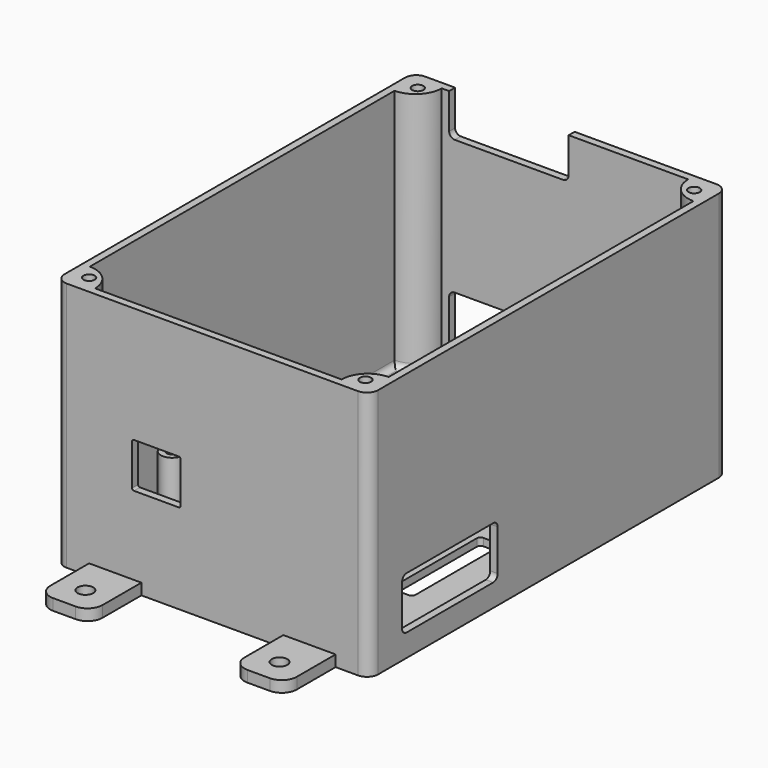
from build123d import *

# Parameters (mm, degrees)
CYLINDER_R                = 2.1
CYLINDER_DEPTH            = 10
BOX009_W                  = 14
BOX009_H                  = 18
BOX009_DEPTH              = 3
FILLET007_R               = 4
CUT008_PLACEMENT_ANGLE    = -90
CUT009_PLACEMENT_ANGLE    = -90
SKETCH_R                  = 1.5
PAD003_DEPTH              = 20
SKETCH003_R               = 3
PAD002_DEPTH              = 21.5
BOX008_W                  = 6
BOX008_H                  = 30
BOX008_DEPTH              = 10
FILLET006_R               = 1
ARRAY_X_COUNT             = 6
ARRAY_X_PITCH             = 10
BOX007_W                  = 13
BOX007_H                  = 12
BOX007_DEPTH              = 12
FILLET003_R               = 0.5
BOX006_W                  = 10
BOX006_H                  = 32
BOX006_DEPTH              = 14
FILLET008_R               = 1.5
FILLET008_PLACEMENT_ANGLE = 90
FILLET001_R               = 1.5
FILLET002_R               = 1.5
FILLET002_PLACEMENT_ANGLE = 90
SKETCH002_R               = 1.5
PAD001_DEPTH              = 55
PAD_DEPTH                 = 101
BOX_W                     = 84
BOX_H                     = 120
BOX_DEPTH                 = 67
FILLET_R                  = 3
FILLET009_R               = 1.5
FILLET010_R               = 3


with BuildPart() as cylinder:
    # Cylinder → Cylinder (new body)
    with BuildSketch(Plane(origin=(0, -10, -5), x_dir=(1, 0, 0), z_dir=(0, 0, 1))):
        Circle(CYLINDER_R)
    extrude(amount=CYLINDER_DEPTH)


with BuildPart() as fillet007:
    # Box009 → Box009 (new body)
    with BuildSketch(Plane(origin=(-7, -17, -3), x_dir=(1, 0, 0), z_dir=(0, 0, 1))):
        with Locations((7, 9)):
            Rectangle(BOX009_W, BOX009_H)
    extrude(amount=BOX009_DEPTH)

    # Fillet007
    fillet007_edges = [fillet007.edges().sort_by_distance(p)[0] for p in [
        (-7, -17, -1.5),
        (7, -17, -1.5),
    ]]
    fillet(fillet007_edges, radius=FILLET007_R)


with BuildPart() as cut006:
    # Cut006 base: copy of Fillet007
    add(fillet007.part)

    # Cut006: cut Cylinder
    add(cylinder.part, mode=Mode.SUBTRACT)


with BuildPart() as cut006_1:
    # Cut006 placement: moved
    add(cut006.part.moved(Location((16, 0, 0))))


with BuildPart() as cut008:
    # Cut008 base: copy of Fillet007
    add(fillet007.part)

    # Cut008: cut Cylinder
    add(cylinder.part, mode=Mode.SUBTRACT)


with BuildPart() as cut008_1:
    # Cut008 placement: moved
    add(cut008.part.moved(Location((0, 40, 0))).rotate(Axis((0, 40, 0), (0, 0, 1)), CUT008_PLACEMENT_ANGLE))


with BuildPart() as cut009:
    # Cut009 base: copy of Fillet007
    add(fillet007.part)

    # Cut009: cut Cylinder
    add(cylinder.part, mode=Mode.SUBTRACT)


with BuildPart() as cut009_1:
    # Cut009 placement: moved
    add(cut009.part.moved(Location((0, 104, 0))).rotate(Axis((0, 104, 0), (0, 0, 1)), CUT009_PLACEMENT_ANGLE))


with BuildPart() as fusion002:
    # Cut007 base: copy of Fillet007
    add(fillet007.part)

    # Cut007: cut Cylinder
    add(cylinder.part, mode=Mode.SUBTRACT)


with BuildPart() as fusion002_1:
    # Cut007 placement: moved
    add(fusion002.part.moved(Location((68, 0, 0))))

    # Fusion002: union Cut006, Cut008, Cut009
    add(cut006_1.part)
    add(cut008_1.part)
    add(cut009_1.part)


with BuildPart() as pad003:
    # Sketch → Pad003 (new body)
    with BuildSketch(Plane.XY.offset(30)):
        with Locations((29.431499, 72.042999)):
            Circle(SKETCH_R)
        with Locations((57.39175, 72.024506)):
            Circle(SKETCH_R)
        with Locations((14.220078, 21.25082)):
            Circle(SKETCH_R)
        with Locations((62.458767, 102.502319)):
            Circle(SKETCH_R)
        with Locations((62.453587, 19.980213)):
            Circle(SKETCH_R)
    extrude(amount=-PAD003_DEPTH)


with BuildPart() as pad002:
    # Sketch003 → Pad002 (new body)
    with BuildSketch(Plane.XY.offset(-2)):
        with Locations((29.431499, 72.042999)):
            Circle(SKETCH003_R)
        with Locations((57.39175, 72.024506)):
            Circle(SKETCH003_R)
        with Locations((14.220078, 21.25082)):
            Circle(SKETCH003_R)
        with Locations((62.458767, 102.502319)):
            Circle(SKETCH003_R)
        with Locations((62.453587, 19.980213)):
            Circle(SKETCH003_R)
    extrude(amount=PAD002_DEPTH)


with BuildPart() as array:
    # Box008 → Box008 (new body)
    with BuildSketch(Plane(origin=(14, 32, 0), x_dir=(1, 0, 0), z_dir=(0, 0, 1))):
        with Locations((3, 15)):
            Rectangle(BOX008_W, BOX008_H)
    extrude(amount=BOX008_DEPTH)

    # Fillet006
    fillet006_edges = [array.edges().sort_by_distance(p)[0] for p in [
        (14, 32, 5),
        (14, 62, 5),
        (20, 32, 5),
        (20, 62, 5),
    ]]
    fillet(fillet006_edges, radius=FILLET006_R)


with BuildPart() as array_1:
    # Fillet006 placement: moved
    add(array.part.moved(Location((0, 0, -5))))

    # Array X: Array ×6


with BuildPart() as array_2:
    add(array_1.part)
    with Locations(*[(i * ARRAY_X_PITCH, 0, 0) for i in range(1, ARRAY_X_COUNT)]):
        add(array_1.part)


with BuildPart() as fillet003:
    # Box007 → Box007 (new body)
    with BuildSketch(Plane(origin=(20.5, -1, 21), x_dir=(1, 0, 0), z_dir=(0, 0, 1))):
        with Locations((6.5, 6)):
            Rectangle(BOX007_W, BOX007_H)
    extrude(amount=BOX007_DEPTH)

    # Fillet003
    fillet003_edges = [fillet003.edges().sort_by_distance(p)[0] for p in [
        (20.5, 5, 33),
        (20.5, 5, 21),
        (33.5, 5, 33),
        (33.5, 5, 21),
    ]]
    fillet(fillet003_edges, radius=FILLET003_R)


with BuildPart() as cube006:
    # Box006 → Box006 (new body)
    with BuildSketch(Plane(origin=(80, 11, 3), x_dir=(1, 0, 0), z_dir=(0, 0, 1))):
        with Locations((5, 16)):
            Rectangle(BOX006_W, BOX006_H)
    extrude(amount=BOX006_DEPTH)


with BuildPart() as fillet008:
    # Fillet008 base: copy of Cube006
    add(cube006.part)

    # Fillet008
    fillet008_edges = [fillet008.edges().sort_by_distance(p)[0] for p in [
        (85, 11, 3),
        (85, 11, 17),
        (85, 43, 3),
        (85, 43, 17),
    ]]
    fillet(fillet008_edges, radius=FILLET008_R)


with BuildPart() as fillet008_1:
    # Fillet008 placement: moved
    add(fillet008.part.moved(Location((54, 36, 0))).rotate(Axis((54, 36, 0), (0, 0, 1)), FILLET008_PLACEMENT_ANGLE))


with BuildPart() as fillet001:
    # Fillet001 base: copy of Cube006
    add(cube006.part)

    # Fillet001
    fillet001_edges = [fillet001.edges().sort_by_distance(p)[0] for p in [
        (85, 11, 3),
        (85, 11, 17),
        (85, 43, 3),
        (85, 43, 17),
    ]]
    fillet(fillet001_edges, radius=FILLET001_R)


with BuildPart() as fusion001:
    # Fillet002 base: copy of Cube006
    add(cube006.part)

    # Fillet002
    fillet002_edges = [fusion001.edges().sort_by_distance(p)[0] for p in [
        (85, 11, 3),
        (85, 11, 17),
        (85, 43, 3),
        (85, 43, 17),
    ]]
    fillet(fillet002_edges, radius=FILLET002_R)


with BuildPart() as fusion001_1:
    # Fillet002 placement: moved
    add(fusion001.part.moved(Location((54, 36, 50))).rotate(Axis((54, 36, 50), (0, 0, 1)), FILLET002_PLACEMENT_ANGLE))

    # Fusion001: union Fillet008, Fillet001
    add(fillet008_1.part)
    add(fillet001.part)


with BuildPart() as pad001:
    # Sketch002 → Pad001 (new body)
    with BuildSketch(Plane.XY.offset(100)):
        with Locations((5, 115)):
            Circle(SKETCH002_R)
        with Locations((79, 115)):
            Circle(SKETCH002_R)
        with Locations((79, 5)):
            Circle(SKETCH002_R)
        with Locations((5, 5)):
            Circle(SKETCH002_R)
    extrude(amount=-PAD001_DEPTH)


with BuildPart() as pad:
    # Sketch001 → Pad (new body)
    with BuildSketch(Plane.XY.offset(100)):
        with BuildLine():
            Line((82, 111), (82, 9))
            ThreePointArc((82, 9), (77.050253, 6.949747), (75, 2))
            Line((75, 2), (9, 2))
            ThreePointArc((9, 2), (6.949747, 6.949747), (2, 9))
            Line((2, 9), (2, 111))
            ThreePointArc((2, 111), (6.949747, 113.050253), (9, 118))
            Line((9, 118), (75, 118))
            ThreePointArc((75, 118), (77.050253, 113.050253), (82, 111))
        make_face()
    extrude(amount=-PAD_DEPTH)


with BuildPart() as fusion004:
    # Box → Box (new body)
    with BuildSketch(Plane.XY.offset(-3)):
        with Locations((42, 60)):
            Rectangle(BOX_W, BOX_H)
    extrude(amount=BOX_DEPTH)

    # Cut: cut Pad
    add(pad.part, mode=Mode.SUBTRACT)

    # Cut001: cut Pad001
    add(pad001.part, mode=Mode.SUBTRACT)

    # Fillet
    fillet_edges = [fusion004.edges().sort_by_distance(p)[0] for p in [
        (0, 0, 30.5),
        (0, 120, 30.5),
        (84, 0, 30.5),
        (84, 120, 30.5),
    ]]
    fillet(fillet_edges, radius=FILLET_R)

    # Cut010: cut Fusion001
    add(fusion001_1.part, mode=Mode.SUBTRACT)

    # Cut011: cut Fillet003
    add(fillet003.part, mode=Mode.SUBTRACT)

    # Cut012: cut Array
    add(array_2.part, mode=Mode.SUBTRACT)

    # Fusion003: union Pad002
    add(pad002.part)

    # Cut013: cut Pad003
    add(pad003.part, mode=Mode.SUBTRACT)

    # Fillet009
    fillet009_edges = [fusion004.edges().sort_by_distance(p)[0] for p in [
        (42, 118, -1),
        (6.949747, 113.050253, -1),
        (2, 60, -1),
        (6.949747, 6.949747, -1),
        (42, 2, -1),
        (77.050253, 6.949747, -1),
        (82, 60, -1),
        (77.050253, 113.050253, -1),
    ]]
    fillet(fillet009_edges, radius=FILLET009_R)

    # Fillet010
    fillet010_edges = [fusion004.edges().sort_by_distance(p)[0] for p in [
        (54.39175, 72.024506, -1),
        (26.431499, 72.042999, -1),
        (59.458767, 102.502319, -1),
        (11.220078, 21.25082, -1),
        (59.453587, 19.980213, -1),
    ]]
    fillet(fillet010_edges, radius=FILLET010_R)

    # Fusion004: union Fusion002
    add(fusion002_1.part)


solid = fusion004.part
